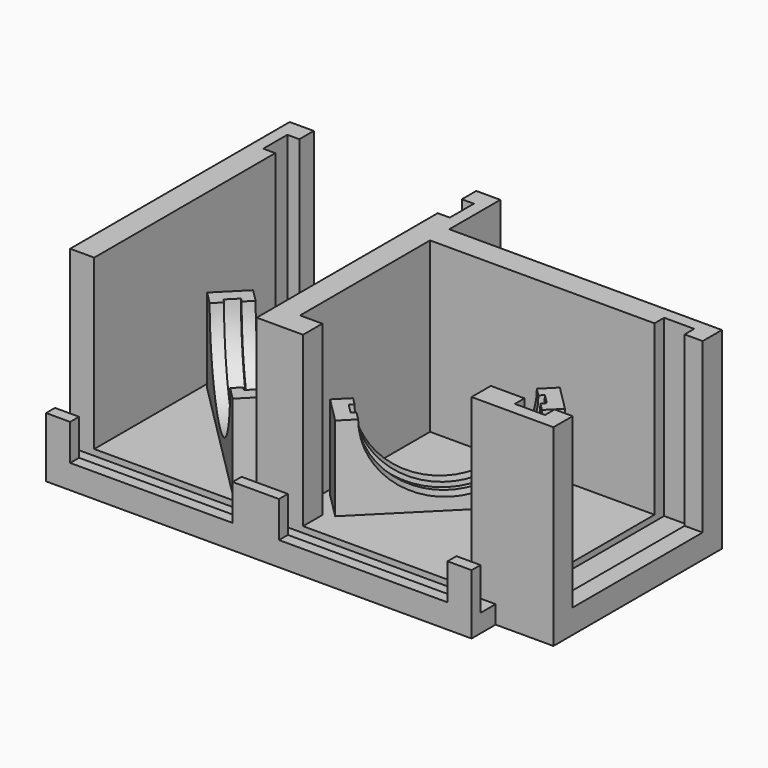
from build123d import *

# Parameters (mm, degrees)
CYLINDER001_R               = 12.8
CYLINDER001_DEPTH           = 2.3
CYLINDER001_ROLL_ANGLE      = 89.8666565593
CYLINDER001_PITCH_ANGLE     = -0.0557418137
CYLINDER001_PLACEMENT_ANGLE = -45.3729530145
SKETCH022_W                 = 35
SKETCH022_H                 = 45.6
PAD010_DEPTH                = 32
SKETCH023_W                 = 27
SKETCH023_H                 = 50
POCKET008_DEPTH             = 28
SKETCH024_W                 = 31
SKETCH024_H                 = 5
POCKET009_DEPTH             = 29
PAD009_DEPTH                = 14
POCKET007_DEPTH             = 6
SKETCH028_W                 = 4
SKETCH028_H                 = 28
POCKET011_DEPTH             = 28
PAD012_DEPTH                = 5
SKETCH030_W                 = 3.15
SKETCH030_H                 = 36
POCKET012_DEPTH             = 7
CUT002_PLACEMENT_ANGLE      = 90
CYLINDER_R                  = 12.8
CYLINDER_DEPTH              = 2.3
CYLINDER_ROLL_ANGLE         = 89.8666565593
CYLINDER_PITCH_ANGLE        = -0.0557418137
CYLINDER_PLACEMENT_ANGLE    = -45.3729530145
SKETCH017_W                 = 35
SKETCH017_H                 = 45.6
PAD008_DEPTH                = 32
SKETCH018_W                 = 27
SKETCH018_H                 = 50
POCKET005_DEPTH             = 28
SKETCH019_W                 = 31
SKETCH019_H                 = 5
POCKET006_DEPTH             = 29
PAD_DEPTH                   = 14
POCKET_DEPTH                = 6
PAD011_DEPTH                = 5
SKETCH027_W                 = 35
SKETCH027_H                 = 3.15
POCKET010_DEPTH             = 7


with BuildPart() as obj1:
    # Cylinder001 → Cylinder001 (new body)
    with BuildSketch(Plane.XY):
        Circle(CYLINDER001_R)
    extrude(amount=CYLINDER001_DEPTH)


with BuildPart() as obj1_1:
    # Cylinder001 roll: moved
    add(obj1.part.rotate(Axis((0, 0, 0), (1, 0, 0)), CYLINDER001_ROLL_ANGLE))


with BuildPart() as obj1_2:
    # Cylinder001 pitch: moved
    add(obj1_1.part.rotate(Axis((0, 0, 0), (0, 1, 0)), CYLINDER001_PITCH_ANGLE))


with BuildPart() as obj1_3:
    # Cylinder001 placement: moved
    add(obj1_2.part.moved(Location((-38.25, -74, 18))).rotate(Axis((-38.25, -74, 18), (0, 0, 1)), CYLINDER001_PLACEMENT_ANGLE))


with BuildPart() as base02:
    # Sketch022 → Pad010 (new body)
    with BuildSketch(Plane.XY):
        Rectangle(SKETCH022_W, SKETCH022_H)
    extrude(amount=PAD010_DEPTH)

    # Sketch023 (on Face6 of Pad010) → Pocket008 (cut)
    with BuildSketch(Plane.XY.offset(32)):
        Rectangle(SKETCH023_W, SKETCH023_H)
    extrude(amount=-POCKET008_DEPTH, mode=Mode.SUBTRACT)

    # Sketch024 (on Face4 of Pocket008) → Pocket009 (cut)
    with BuildSketch(Plane.XY.offset(32)):
        with Locations((0, 17.3)):
            Rectangle(SKETCH024_W, SKETCH024_H)
    extrude(amount=-POCKET009_DEPTH, mode=Mode.SUBTRACT)

    # Sketch021 (on Face17 of Pocket009) → Pad009 (join)
    with BuildSketch(Plane.XY.offset(4)):
        Polygon((-12.73, -0.3126406871), (8.4832034356, -21.5258441227), (12.7258441227, -17.2832034356), (-8.4873593129, 3.93), align=None)
    extrude(amount=PAD009_DEPTH)

    # Sketch025 (on Face19 of Pad009) → Pocket007 (cut)
    with BuildSketch(Plane(origin=(-6.5213203436, -6.5213203436, 0), x_dir=(0.7071067812, -0.7071067812, 0), z_dir=(-0.7071067812, -0.7071067812, 0))):
        with BuildLine():
            ThreePointArc((-5.7803989746, 18), (6.2196010254, 6), (18.2196010254, 18))
            Line((-5.7803989746, 18), (18.2196010254, 18))
        make_face()
    extrude(amount=-POCKET007_DEPTH, mode=Mode.SUBTRACT)

    # Sketch028 (on Face6 of Pocket007) → Pocket011 (cut)
    with BuildSketch(Plane.XY.offset(32)):
        with Locations((15.5, -4.8)):
            Rectangle(SKETCH028_W, SKETCH028_H)
    extrude(amount=-POCKET011_DEPTH, mode=Mode.SUBTRACT)

    # Sketch029 (on Face4 of Pocket011) → Pad012 (join)
    with BuildSketch(Plane.YZ.offset(17.5)):
        Polygon((-22.8, 0), (-22.8, 10), (-18.8, 10), (-18.8, 4), (9.2, 4), (9.2, 10), (13.2, 10), (13.2, 0), align=None)
    extrude(amount=PAD012_DEPTH)

    # Sketch030 (on Face30 of Pad012) → Pocket012 (cut)
    with BuildSketch(Plane.XY.offset(10)):
        with Locations((19.075, -4.8)):
            Rectangle(SKETCH030_W, SKETCH030_H)
    extrude(amount=-POCKET012_DEPTH, mode=Mode.SUBTRACT)


with BuildPart() as base02_1:
    # Body007 placement: moved
    add(base02.part.moved(Location((-39, -66, 0))))

    # Cut002: cut obj1
    add(obj1_3.part, mode=Mode.SUBTRACT)


with BuildPart() as base02_2:
    # Cut002 placement: moved
    add(base02_1.part.moved(Location((67, -44.3, 0))).rotate(Axis((67, -44.3, 0), (0, 0, -1)), CUT002_PLACEMENT_ANGLE))


with BuildPart() as obj2:
    # Cylinder → Cylinder (new body)
    with BuildSketch(Plane.XY):
        Circle(CYLINDER_R)
    extrude(amount=CYLINDER_DEPTH)


with BuildPart() as obj2_1:
    # Cylinder roll: moved
    add(obj2.part.rotate(Axis((0, 0, 0), (1, 0, 0)), CYLINDER_ROLL_ANGLE))


with BuildPart() as obj2_2:
    # Cylinder pitch: moved
    add(obj2_1.part.rotate(Axis((0, 0, 0), (0, 1, 0)), CYLINDER_PITCH_ANGLE))


with BuildPart() as obj2_3:
    # Cylinder placement: moved
    add(obj2_2.part.moved(Location((-38.25, -8, 18))).rotate(Axis((-38.25, -8, 18), (0, 0, 1)), CYLINDER_PLACEMENT_ANGLE))


with BuildPart() as obj3:
    # Sketch017 → Pad008 (new body)
    with BuildSketch(Plane.XY):
        Rectangle(SKETCH017_W, SKETCH017_H)
    extrude(amount=PAD008_DEPTH)

    # Sketch018 (on Face6 of Pad008) → Pocket005 (cut)
    with BuildSketch(Plane.XY.offset(32)):
        Rectangle(SKETCH018_W, SKETCH018_H)
    extrude(amount=-POCKET005_DEPTH, mode=Mode.SUBTRACT)

    # Sketch019 (on Face4 of Pocket005) → Pocket006 (cut)
    with BuildSketch(Plane.XY.offset(32)):
        with Locations((0, 17.3)):
            Rectangle(SKETCH019_W, SKETCH019_H)
    extrude(amount=-POCKET006_DEPTH, mode=Mode.SUBTRACT)

    # Sketch (on Face17 of Pocket006) → Pad (join)
    with BuildSketch(Plane.XY.offset(4)):
        Polygon((-12.73, -0.3126406871), (8.4832034356, -21.5258441227), (12.7258441227, -17.2832034356), (-8.4873593129, 3.93), align=None)
    extrude(amount=PAD_DEPTH)

    # Sketch020 (on Face19 of Pad) → Pocket (cut)
    with BuildSketch(Plane(origin=(-6.5213203436, -6.5213203436, 0), x_dir=(0.7071067812, -0.7071067812, 0), z_dir=(-0.7071067812, -0.7071067812, 0))):
        with BuildLine():
            ThreePointArc((-5.7803989746, 18), (6.2196010254, 6), (18.2196010254, 18))
            Line((-5.7803989746, 18), (18.2196010254, 18))
        make_face()
    extrude(amount=-POCKET_DEPTH, mode=Mode.SUBTRACT)

    # Sketch026 (on Face10 of Pocket) → Pad011 (join)
    with BuildSketch(Plane.XZ.offset(22.8)):
        Polygon((-17.5, 0), (17.5, 0), (17.5, 10), (13.5, 10), (13.5, 4), (-13.5, 4), (-13.5, 10), (-17.5, 10), align=None)
    extrude(amount=PAD011_DEPTH)

    # Sketch027 (on Face22 of Pad011) → Pocket010 (cut)
    with BuildSketch(Plane.XY.offset(10)):
        with Locations((0, -24.375)):
            Rectangle(SKETCH027_W, SKETCH027_H)
    extrude(amount=-POCKET010_DEPTH, mode=Mode.SUBTRACT)


with BuildPart() as obj3_1:
    # Body006 placement: moved
    add(obj3.part.moved(Location((-39, 0, 0))))

    # Cut001: cut obj2
    add(obj2_3.part, mode=Mode.SUBTRACT)

    # Fusion: union Base02
    add(base02_2.part)


solid = obj3_1.part
